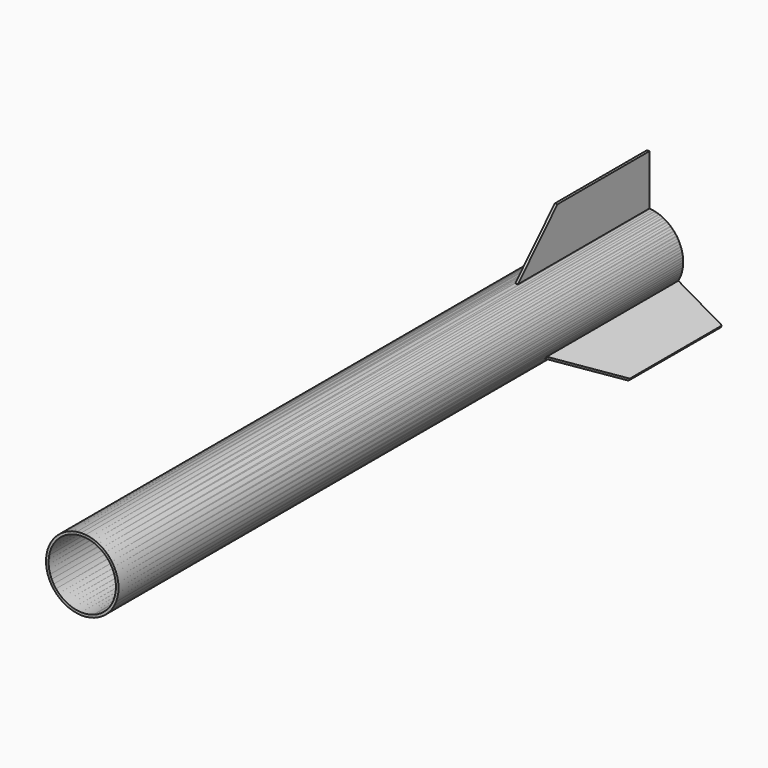
from build123d import *

# Parameters (mm, degrees)
F0_R     = 11.3
F0_R_2   = 10.5
F1_DEPTH = 220
F3_DEPTH = 0.8
F4_COUNT = 3


with BuildPart() as f1:
    # F0 (on Front) → F1 (new body)
    with BuildSketch(Plane.XZ):
        Circle(F0_R)
        Circle(F0_R_2, mode=Mode.SUBTRACT)
    extrude(amount=F1_DEPTH)

    # F2 (on Right) → F3 (join)
    with BuildSketch(Plane.YZ):
        Polygon((-52.138364, 10.442535), (0, 10.442535), (0, 26.987851), (-35.883319, 26.987851), align=None)
    extrude(amount=F3_DEPTH)


with BuildPart() as f4_1:
    # F4: instance of F1
    add(f1.part.rotate(Axis((0, 0, 0), (0, 1, 0)), 1 * 360 / F4_COUNT))


with BuildPart() as f4_2:
    # F4: instance of F1
    add(f1.part.rotate(Axis((0, 0, 0), (0, 1, 0)), 2 * 360 / F4_COUNT))


solid = Compound([f1.part, f4_1.part, f4_2.part])
